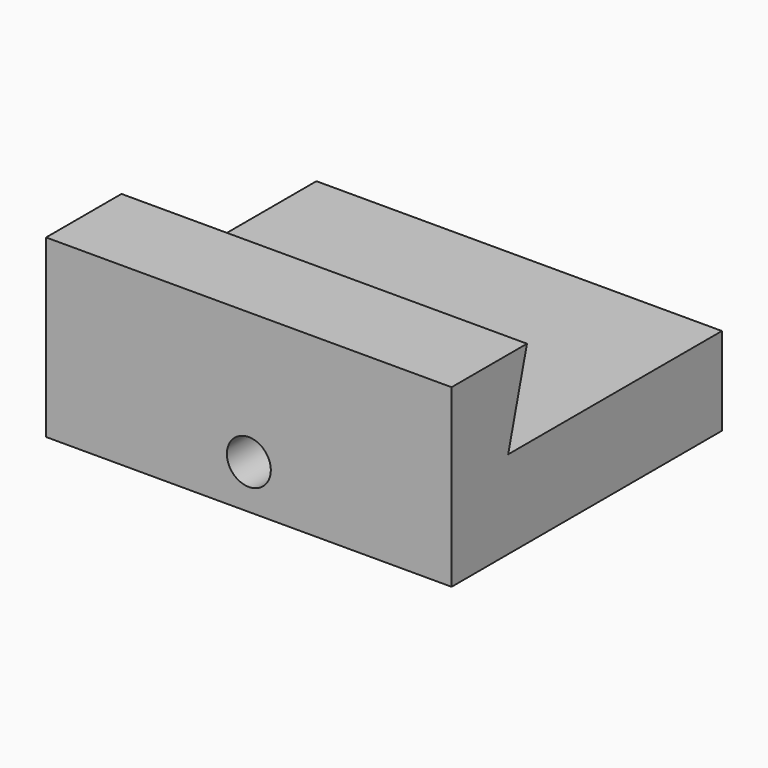
from build123d import *

# Parameters (mm, degrees)
F0_W     = 60
F0_H     = 50
F1_DEPTH = 13
F3_DEPTH = 60
F4_R     = 3.25
F5_DEPTH = 50
F6_R     = 2.5
F7_DEPTH = 10


with BuildPart() as f1:
    # F0 (on Top) → F1 (new body, symmetric)
    with BuildSketch(Plane.XY):
        Rectangle(F0_W, F0_H)
    extrude(amount=F1_DEPTH, both=True)

    # F2 (on face) → F3 (cut)
    with BuildSketch(Plane.YZ.offset(30)):
        Polygon((-11.055123, 13), (-14.538462, 0), (25, 0), (25, 13), align=None)
    extrude(amount=-F3_DEPTH, mode=Mode.SUBTRACT)

    # F4 (on face) → F5 (cut)
    with BuildSketch(Plane(origin=(0, 25, 0), x_dir=(-1, 0, 0), z_dir=(0, 1, 0))):
        with Locations((0, -6.5)):
            Circle(F4_R)
    extrude(amount=-F5_DEPTH, mode=Mode.SUBTRACT)

    # F6 (on face) → F7 (cut)
    with BuildSketch(Plane(origin=(0, 25, 0), x_dir=(-1, 0, 0), z_dir=(0, 1, 0))):
        with Locations((-20, -6.5)):
            Circle(F6_R)
        with Locations((20, -6.5)):
            Circle(F6_R)
    extrude(amount=-F7_DEPTH, mode=Mode.SUBTRACT)


solid = f1.part
